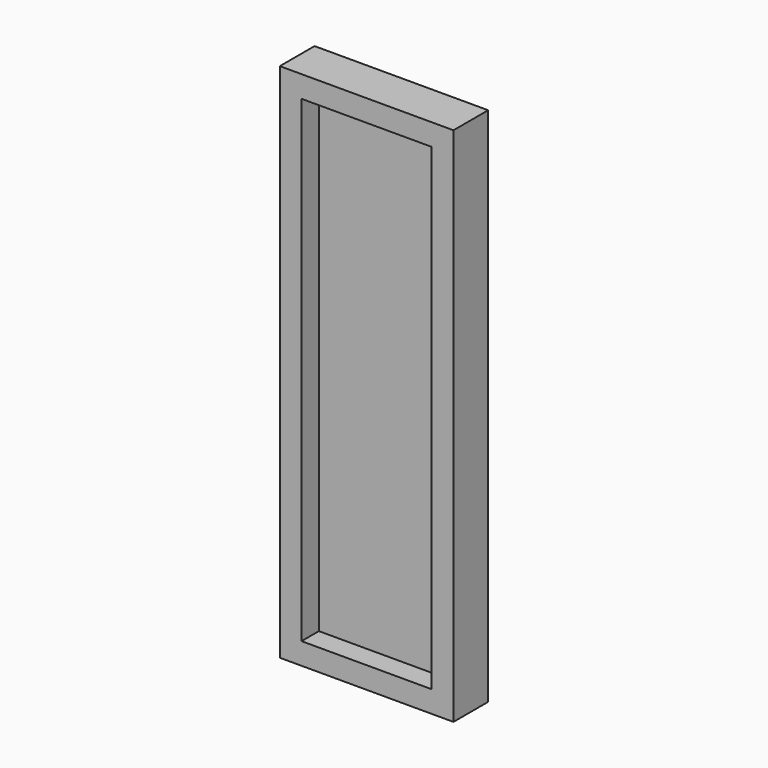
from build123d import *

# Parameters (mm, degrees)
F0_W     = 50.8
F0_H     = 152.4
F0_W_2   = 38.1
F0_H_2   = 139.699999
F1_DEPTH = 6.35
F2_W     = 50.8
F2_H     = 152.4
F3_DEPTH = 6.35


with BuildPart() as f1:
    # F0 (on Front) → F1 (new body)
    with BuildSketch(Plane.XZ):
        with Locations((-40.39901, 63.622579)):
            Rectangle(F0_W, F0_H)
        with Locations((-40.39901, 63.62258)):
            Rectangle(F0_W_2, F0_H_2, mode=Mode.SUBTRACT)
    extrude(amount=F1_DEPTH)

    # F2 (on face) → F3 (join)
    with BuildSketch(Plane(origin=(0, 0, 0), x_dir=(-1, 0, 0), z_dir=(0, 1, 0))):
        with Locations((40.39901, 63.622579)):
            Rectangle(F2_W, F2_H)
    extrude(amount=F3_DEPTH)


solid = f1.part
